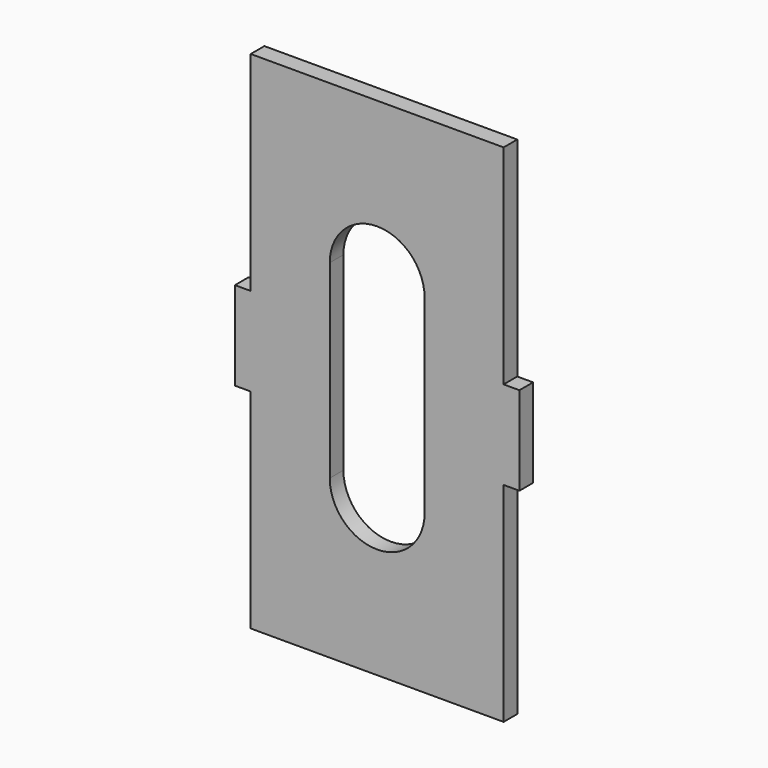
from build123d import *

# Parameters (mm, degrees)
F1_DEPTH = 3.429


with BuildPart() as f1:
    # F0 (on Front) → F1 (new body)
    with BuildSketch(Plane.XZ):
        Polygon((-575.599027, 443.908663), (-575.599027, 461.688663), (-578.774027, 461.688663), (-578.774027, 503.598663), (-629.574027, 503.598663), (-629.574027, 461.688663), (-632.749027, 461.688663), (-632.749027, 443.908663), (-629.574027, 443.908663), (-629.574027, 401.998663), (-578.774027, 401.998663), (-578.774027, 443.908663), align=None)
        with BuildLine():
            Line((-594.649027, 471.848663), (-594.649027, 433.748663))
            ThreePointArc((-594.649027, 433.748663), (-604.174027, 424.223663), (-613.699027, 433.748663))
            Line((-613.699027, 433.748663), (-613.699027, 471.848663))
            ThreePointArc((-613.699027, 471.848663), (-604.174027, 481.373663), (-594.649027, 471.848663))
        make_face(mode=Mode.SUBTRACT)
    extrude(amount=F1_DEPTH)


solid = f1.part
